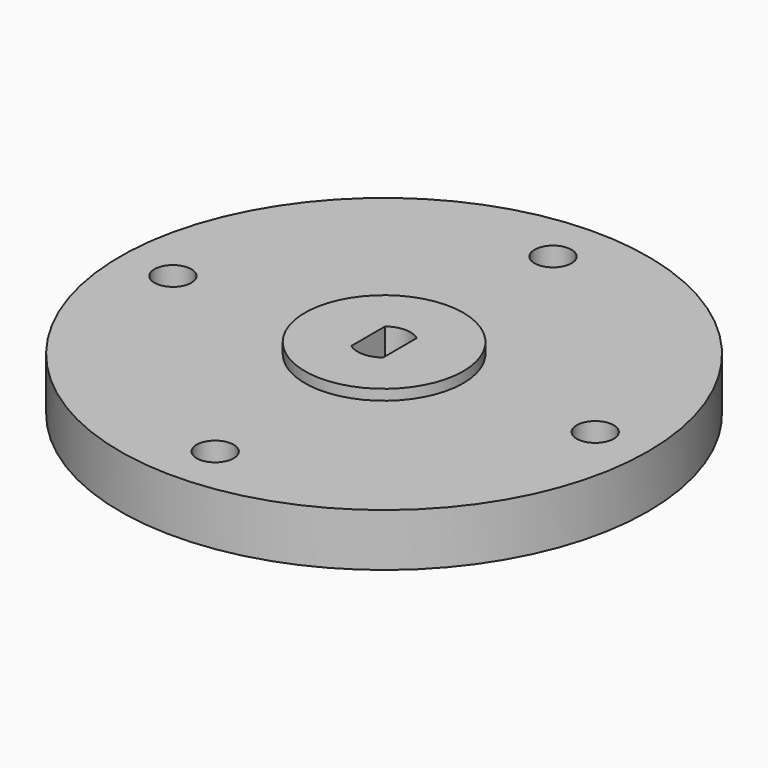
from build123d import *

# Parameters (mm, degrees)
F0_R     = 7.5
F0_R_2   = 25
F1_DEPTH = 5
F2_DEPTH = 6
F3_R     = 1.75
F4_DEPTH = 5


with BuildPart() as f1:
    # F0 (on Top) → F1 (new body)
    with BuildSketch(Plane.XY):
        Circle(F0_R)
        with BuildLine():
            ThreePointArc((1.5, -2), (0, -2.5), (-1.5, -2))
            Line((-1.5, -2), (-1.5, 2))
            ThreePointArc((-1.5, 2), (0, 2.5), (1.5, 2))
            Line((1.5, 2), (1.5, -2))
        make_face(mode=Mode.SUBTRACT)
        Circle(F0_R_2)
        Circle(F0_R, mode=Mode.SUBTRACT)
    extrude(amount=F1_DEPTH)

    # F0 (on Top) → F2 (join)
    with BuildSketch(Plane.XY):
        Circle(F0_R)
        with BuildLine():
            ThreePointArc((1.5, -2), (0, -2.5), (-1.5, -2))
            Line((-1.5, -2), (-1.5, 2))
            ThreePointArc((-1.5, 2), (0, 2.5), (1.5, 2))
            Line((1.5, 2), (1.5, -2))
        make_face(mode=Mode.SUBTRACT)
    extrude(amount=F2_DEPTH)

    # F3 (on face) → F4 (cut)
    with BuildSketch(Plane.XY.offset(5)):
        with BuildLine():
            ThreePointArc((0, 18.25), (1.237437, 18.762563), (1.75, 20))
            ThreePointArc((1.75, 20), (-1.237437, 21.237437), (0, 18.25))
        make_face()
        with Locations((20, 0)):
            Circle(F3_R)
        with Locations((0, -20)):
            Circle(F3_R)
        with Locations((-20, 0)):
            Circle(F3_R)
    extrude(amount=-F4_DEPTH, mode=Mode.SUBTRACT)


solid = f1.part
